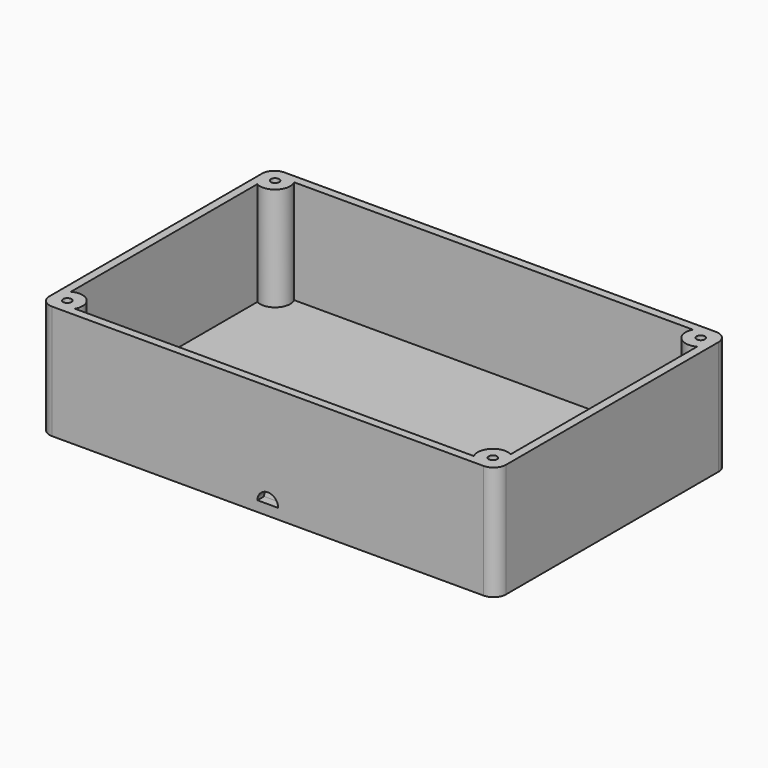
from build123d import *

# Parameters (mm, degrees)
F0_W     = 106
F0_H     = 66
F1_DEPTH = 2.5
F2_DEPTH = 27.5
F3_R     = 3.65
F3_R_2   = 1
F4_DEPTH = 25
F7_DEPTH = 2


with BuildPart() as f1:
    # F0 (on Top) → F1 (new body)
    with BuildSketch(Plane.XY):
        with BuildLine():
            ThreePointArc((55, 32), (54.12132, 34.12132), (52, 35))
            Line((52, 35), (-52, 35))
            ThreePointArc((-52, 35), (-54.12132, 34.12132), (-55, 32))
            Line((-55, 32), (-55, -32))
            ThreePointArc((-55, -32), (-54.12132, -34.12132), (-52, -35))
            Line((-52, -35), (52, -35))
            ThreePointArc((52, -35), (54.12132, -34.12132), (55, -32))
            Line((55, -32), (55, 32))
        make_face()
        Rectangle(F0_W, F0_H, mode=Mode.SUBTRACT)
        Rectangle(F0_W, F0_H)
    extrude(amount=F1_DEPTH)

    # F0 (on Top) → F2 (join)
    with BuildSketch(Plane.XY):
        with BuildLine():
            ThreePointArc((55, 32), (54.12132, 34.12132), (52, 35))
            Line((52, 35), (-52, 35))
            ThreePointArc((-52, 35), (-54.12132, 34.12132), (-55, 32))
            Line((-55, 32), (-55, -32))
            ThreePointArc((-55, -32), (-54.12132, -34.12132), (-52, -35))
            Line((-52, -35), (52, -35))
            ThreePointArc((52, -35), (54.12132, -34.12132), (55, -32))
            Line((55, -32), (55, 32))
        make_face()
        Rectangle(F0_W, F0_H, mode=Mode.SUBTRACT)
    extrude(amount=F2_DEPTH)

    # F3 (on face) → F4 (join)
    with BuildSketch(Plane.XY.offset(2.5)):
        with Locations((-51.286835, 31.298466)):
            Circle(F3_R)
        with Locations((-51.286835, 31.298466)):
            Circle(F3_R_2, mode=Mode.SUBTRACT)
        with Locations((-51.286835, -31.298466)):
            Circle(F3_R)
        with Locations((-51.286835, -31.298466)):
            Circle(F3_R_2, mode=Mode.SUBTRACT)
        with Locations((51.286835, -31.298466)):
            Circle(F3_R)
        with Locations((51.286835, -31.298466)):
            Circle(F3_R_2, mode=Mode.SUBTRACT)
        with Locations((51.286835, 31.298466)):
            Circle(F3_R)
        with Locations((51.286835, 31.298466)):
            Circle(F3_R_2, mode=Mode.SUBTRACT)
    extrude(amount=F4_DEPTH)

    # F6 (on offset) → F7 (cut, through all)
    with BuildSketch(Plane.XZ.offset(35)):
        with BuildLine():
            Line((-2.5, 2.5), (2.5, 2.499828))
            ThreePointArc((2.5, 2.499828), (8.6e-05, 5), (-2.5, 2.5))
        make_face()
    extrude(amount=-F7_DEPTH, mode=Mode.SUBTRACT)


solid = f1.part
